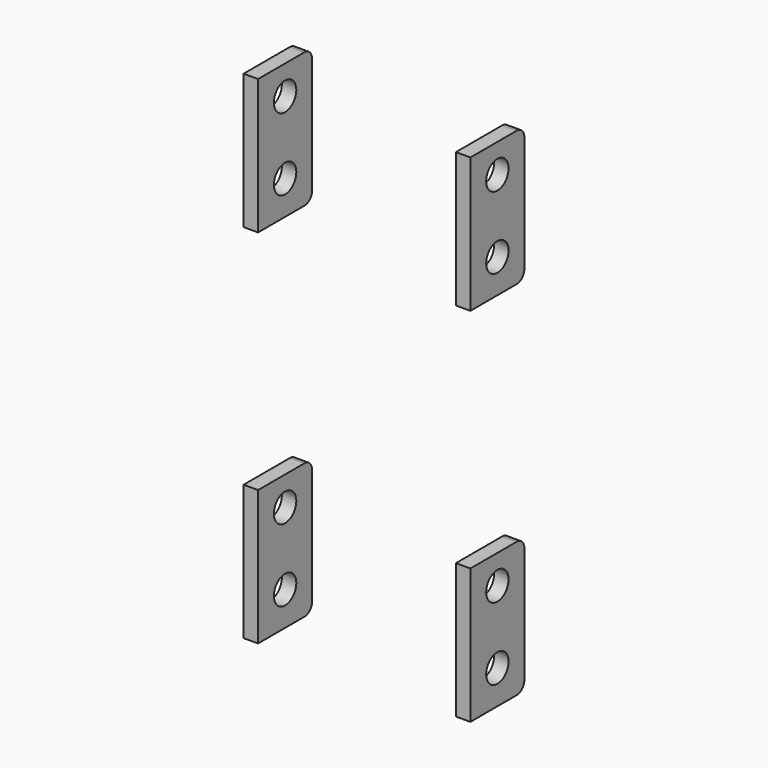
from build123d import *

# Parameters (mm, degrees)
CYLINDER001_R     = 2.9
CYLINDER001_DEPTH = 100
ARRAY002_Z_COUNT  = 10
ARRAY002_Z_PITCH  = 15
BOX004_W          = 3
BOX004_H          = 14
BOX004_DEPTH      = 28
FILLET002_R       = 2
ARRAY001_Z_COUNT  = 2
ARRAY001_Z_PITCH  = 75


with BuildPart() as side_hole_array:
    # Cylinder001 → Cylinder001 (new body)
    with BuildSketch(Plane(origin=(-50, 0, 0), x_dir=(0, 0, -1), z_dir=(1, 0, 0))):
        Circle(CYLINDER001_R)
    extrude(amount=CYLINDER001_DEPTH)

    # Array002 Z: side hole array ×10


with BuildPart() as side_hole_array_1:
    add(side_hole_array.part)
    with Locations(*[(0, 0, i * ARRAY002_Z_PITCH) for i in range(1, ARRAY002_Z_COUNT)]):
        add(side_hole_array.part)


with BuildPart() as side_hole_array_2:
    # Array002 placement: moved
    add(side_hole_array_1.part.moved(Location((0, -1, 9))))


with BuildPart() as holder_side_fillet:
    # Box004 → Box004 (new body)
    with BuildSketch(Plane(origin=(20.5, -8, 0), x_dir=(1, 0, 0), z_dir=(0, 0, 1))):
        with Locations((1.5, 7)):
            Rectangle(BOX004_W, BOX004_H)
    extrude(amount=BOX004_DEPTH)

    # Fillet002
    fillet002_edges = [holder_side_fillet.edges().sort_by_distance(p)[0] for p in [
        (22, 6, 0),
        (22, 6, 28),
    ]]
    fillet(fillet002_edges, radius=FILLET002_R)


with BuildPart() as sides_with_holes:
    # Part__Mirroring002: instance of holder side fillet
    add(holder_side_fillet.part.mirror(Plane(origin=(0, 0, 0), x_dir=(0, -1, 0), z_dir=(1, 0, 0))))

    # Fusion001: union holder side fillet
    add(holder_side_fillet.part)

    # Array001 Z: sides with holes ×2


with BuildPart() as sides_with_holes_1:
    add(sides_with_holes.part)
    with Locations(*[(0, 0, i * ARRAY001_Z_PITCH) for i in range(1, ARRAY001_Z_COUNT)]):
        add(sides_with_holes.part)


with BuildPart() as sides_with_holes_2:
    # Array001 placement: moved
    add(sides_with_holes_1.part.moved(Location((0, 0, 2))))

    # Cut001: cut side hole array
    add(side_hole_array_2.part, mode=Mode.SUBTRACT)


solid = sides_with_holes_2.part
